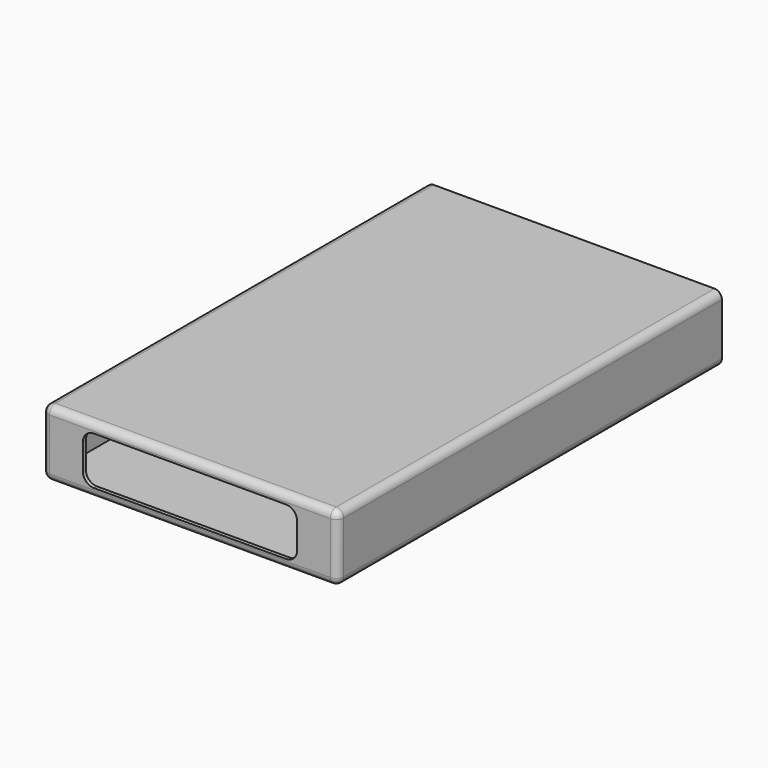
from build123d import *

# Parameters (mm, degrees)
SKETCH_W     = 80
SKETCH_H     = 130
PAD_DEPTH    = 18
THICKNESS_T  = -1
POCKET_DEPTH = 130.001
FILLET_R     = 2


with BuildPart() as part:
    # Sketch → Pad (new body)
    with BuildSketch(Plane.XY):
        Rectangle(SKETCH_W, SKETCH_H)
    extrude(amount=PAD_DEPTH)

    # Thickness
    thickness_openings = [part.faces().sort_by_distance(p)[0] for p in [
        (0, 65, 9),
    ]]
    offset(amount=THICKNESS_T, openings=thickness_openings)

    # Sketch001 (on Face2 of Thickness) → Pocket (cut, through all)
    with BuildSketch(Plane.XZ.offset(65)):
        with BuildLine():
            Line((-26, 15.5), (26, 15.5))
            ThreePointArc((29, 12.5), (28.12132, 14.62132), (26, 15.5))
            Line((29, 12.5), (29, 5.5))
            ThreePointArc((26, 2.5), (28.12132, 3.37868), (29, 5.5))
            Line((26, 2.5), (-26, 2.5))
            ThreePointArc((-29, 5.5), (-28.12132, 3.37868), (-26, 2.5))
            Line((-29, 5.5), (-29, 12.5))
            ThreePointArc((-26, 15.5), (-28.12132, 14.62132), (-29, 12.5))
        make_face()
    extrude(amount=-POCKET_DEPTH, mode=Mode.SUBTRACT)

    # Fillet
    fillet_edges = [part.edges().sort_by_distance(p)[0] for p in [
        (-40, 0, 0),
        (40, 0, 0),
        (-40, 0, 18),
        (0, -65, 18),
        (-40, -65, 9),
        (0, -65, 0),
        (40, -65, 9),
        (40, 0, 18),
    ]]
    fillet(fillet_edges, radius=FILLET_R)


solid = part.part
